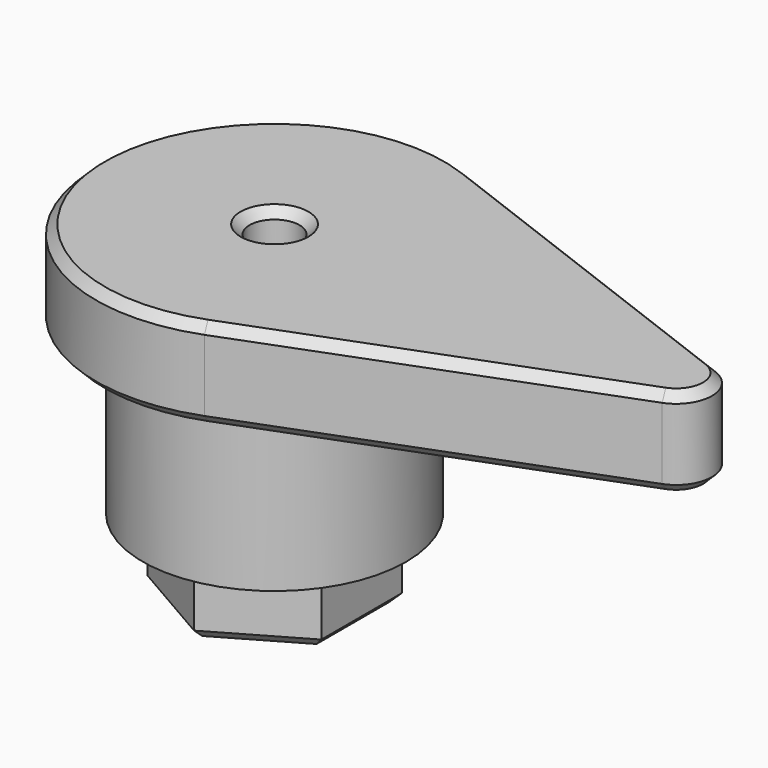
from build123d import *

# Parameters (mm, degrees)
PAD003_DEPTH    = 8
SKETCH007_R     = 14.75
PAD004_DEPTH    = 18.5
PAD005_DEPTH    = 10
SKETCH009_R     = 2.8
POCKET002_DEPTH = 36.501
CHAMFER_SIZE    = 1


with BuildPart() as part:
    # Sketch006 → Pad003 (new body)
    with BuildSketch(Plane.XY):
        Polygon((0, -11.25833), (9.75, -5.629165), (9.75, 5.629165), (0, 11.25833), (-9.75, 5.629165), (-9.75, -5.629165), align=None)
    extrude(amount=PAD003_DEPTH)

    # Sketch007 (on Face8 of Pad003) → Pad004 (join)
    with BuildSketch(Plane.XY.offset(8)):
        Circle(SKETCH007_R)
    extrude(amount=PAD004_DEPTH)

    # Sketch008 (on Face3 of Pad004) → Pad005 (join)
    with BuildSketch(Plane.XY.offset(26.5)):
        with BuildLine():
            ThreePointArc((7.111111, 18.693103), (-20, 0), (7.111111, -18.693103))
            Line((46.422222, -3.738621), (7.111111, -18.693103))
            ThreePointArc((46.422222, -3.738621), (49, 0), (46.422222, 3.738621))
            Line((46.422222, 3.738621), (7.111111, 18.693103))
        make_face()
    extrude(amount=PAD005_DEPTH)

    # Sketch009 (on Face5 of Pad005) → Pocket002 (cut, through all)
    with BuildSketch(Plane.XY.offset(36.5)):
        Circle(SKETCH009_R)
    extrude(amount=-POCKET002_DEPTH, mode=Mode.SUBTRACT)

    # Chamfer
    chamfer_edges = [part.edges().sort_by_distance(p)[0] for p in [
        (49, 0, 36.5),
        (26.766667, -11.215862, 36.5),
        (26.766667, 11.215862, 36.5),
        (-20, 0, 36.5),
        (-2.8, 0, 36.5),
        (26.766667, -11.215862, 26.5),
        (4.875, -8.443748, 0),
        (-4.875, -8.443748, 0),
        (9.75, 0, 0),
        (-9.75, 0, 0),
        (4.875, 8.443748, 0),
        (-4.875, 8.443748, 0),
        (-2.8, 0, 0),
    ]]
    chamfer(chamfer_edges, length=CHAMFER_SIZE)


solid = part.part
